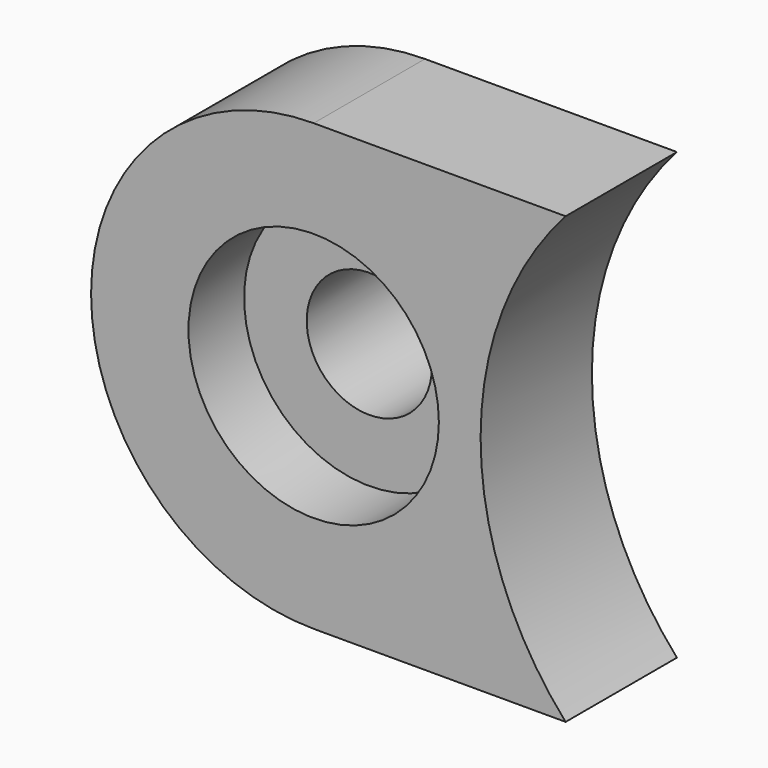
from build123d import *

# Parameters (mm, degrees)
PAD021_DEPTH      = 5
BOX002_W          = 5.4
BOX002_H          = 5.4
BOX002_DEPTH      = 4
CYLINDER063_R     = 2.25
CYLINDER063_DEPTH = 9
SKETCH034_R       = 4.5
POCKET004_DEPTH   = 2.5


with BuildPart() as part:
    # Sketch031 → Pad021 (new body)
    with BuildSketch(Plane.XZ):
        with BuildLine():
            ThreePointArc((-18, 8), (-26, 0), (-18, -8))
            Line((-18, -8), (-8.944272, -8))
            ThreePointArc((-8.944272, 8), (-12, 0), (-8.944272, -8))
            Line((-18, 8), (-8.944272, 8))
        make_face()
    extrude(amount=PAD021_DEPTH)

    # Box002 → Box002 (join)
    with BuildSketch(Plane(origin=(-20.7, 4, -2.7), x_dir=(1, 0, 0), z_dir=(0, -1, 0))):
        with Locations((2.7, 2.7)):
            Rectangle(BOX002_W, BOX002_H)
    extrude(amount=BOX002_DEPTH)

    # Cylinder063 → Cylinder063 (cut)
    with BuildSketch(Plane(origin=(-18, 4, 0), x_dir=(1, 0, 0), z_dir=(0, -1, 0))):
        Circle(CYLINDER063_R)
    extrude(amount=CYLINDER063_DEPTH, mode=Mode.SUBTRACT)

    # Sketch034 (on Face5 of Cylinder063) → Pocket004 (cut)
    with BuildSketch(Plane(origin=(-18, -5, 0), x_dir=(1, 0, 0), z_dir=(0, -1, 0))):
        Circle(SKETCH034_R)
    extrude(amount=-POCKET004_DEPTH, mode=Mode.SUBTRACT)


with BuildPart() as part_1:
    # Body033 placement: moved
    add(part.part.moved(Location((0, -5, 0))))


solid = part_1.part
